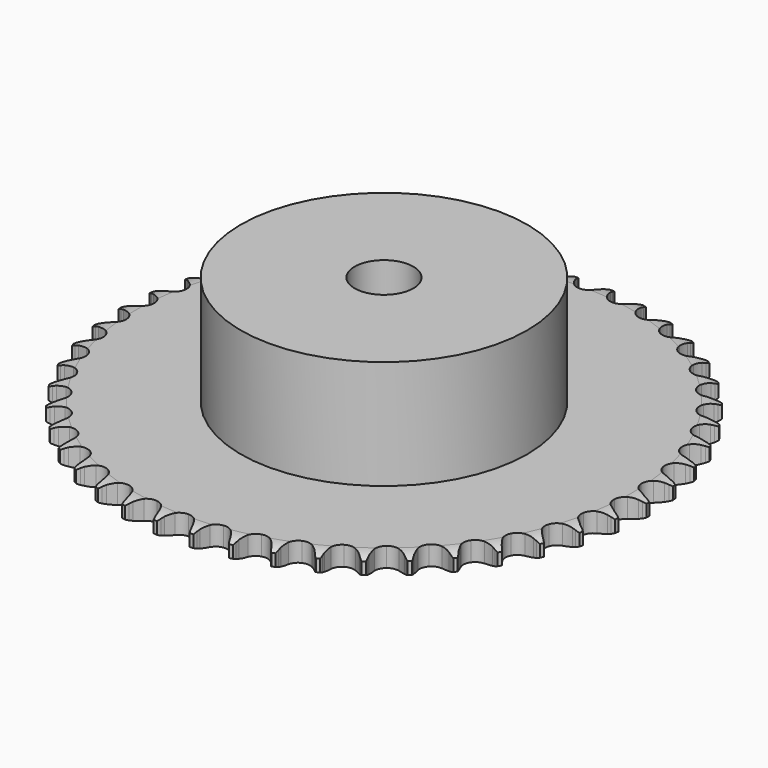
from build123d import *

# Parameters (mm, degrees)
PAD_DEPTH         = 5.3
SKETCH001_R       = 39
PAD001_DEPTH      = 35
SKETCH002_R       = 8
POCKET_DEPTH      = 0.001
POCKET_DEPTH_BACK = 35.001


with BuildPart() as part:
    # Sprocket → Pad (new body)
    with BuildSketch(Plane.XY):
        with BuildLine():
            ThreePointArc((-4.957772, 72.480067), (-4.430516, 71.726714), (-4.04661, 70.891157))
            Line((-4.04661, 70.891157), (-3.737444, 70.019151))
            ThreePointArc((-3.737444, 70.019151), (-3.248414, 68.906026), (-2.602177, 67.876184))
            ThreePointArc((-2.602177, 67.876184), (-1.458278, 66.907056), (0, 66.559002))
            ThreePointArc((0, 66.559002), (1.458278, 66.907056), (2.602177, 67.876184))
            ThreePointArc((2.602177, 67.876184), (3.248414, 68.906026), (3.737444, 70.019151))
            Line((3.737444, 70.019151), (4.04661, 70.891157))
            ThreePointArc((4.04661, 70.891157), (4.430516, 71.726714), (4.957772, 72.480067))
            ThreePointArc((4.957772, 72.480067), (5.377536, 71.661936), (5.644091, 70.781886))
            Line((5.644091, 70.781886), (5.83164, 69.875904))
            ThreePointArc((5.83164, 69.875904), (6.164545, 68.706557), (6.664532, 67.598311))
            ThreePointArc((6.664532, 67.598311), (7.665815, 66.482449), (9.063116, 65.939068))
            ThreePointArc((9.063116, 65.939068), (10.555205, 66.085312), (11.820413, 66.889652))
            Line((11.820413, 66.889652), (13.236907, 68.858073))
            ThreePointArc((13.236907, 68.858073), (13.437972, 69.274887), (13.661931, 69.67986))
            ThreePointArc((13.661931, 69.67986), (14.156037, 70.455359), (14.780963, 71.1299))
            ThreePointArc((14.780963, 71.1299), (15.085415, 70.262232), (15.229654, 69.354083))
            Line((15.229654, 69.354083), (15.292091, 68.431001))
            ThreePointArc((15.292091, 68.431001), (15.46267, 67.227215), (15.807094, 66.06121))
            ThreePointArc((15.807094, 66.06121), (16.647107, 64.8194), (17.957404, 64.090814))
            ThreePointArc((17.957404, 64.090814), (19.455508, 64.032523), (20.818457, 64.657092))
            Line((20.818457, 64.657092), (22.48979, 66.4143))
            ThreePointArc((22.48979, 66.4143), (22.745739, 66.799853), (23.022756, 67.170558))
            ThreePointArc((23.022756, 67.170558), (23.617857, 67.871554), (24.328813, 68.454718))
            ThreePointArc((24.328813, 68.454718), (24.512281, 67.553675), (24.531518, 66.634344))
            Line((24.531518, 66.634344), (24.46768, 65.711358))
            ThreePointArc((24.46768, 65.711358), (24.472754, 64.495558), (24.655199, 63.293513))
            ThreePointArc((24.655199, 63.293513), (25.318295, 61.948888), (26.517179, 61.048669))
            ThreePointArc((26.517179, 61.048669), (27.993393, 60.786929), (29.428692, 61.220093))
            Line((29.428692, 61.220093), (31.323732, 62.733354))
            ThreePointArc((31.323732, 62.733354), (31.629796, 63.080465), (31.954711, 63.409997))
            ThreePointArc((31.954711, 63.409997), (32.639721, 64.02343), (33.423462, 64.504354))
            ThreePointArc((33.423462, 64.504354), (33.48253, 63.586721), (33.376405, 62.673334))
            Line((33.376405, 62.673334), (33.187482, 61.767637))
            ThreePointArc((33.187482, 61.767637), (33.026958, 60.56247), (33.044025, 59.346778))
            ThreePointArc((33.044025, 59.346778), (33.517852, 57.924385), (34.582989, 56.869303))
            ThreePointArc((34.582989, 56.869303), (36.009813, 56.40899), (37.490727, 56.642679))
            Line((37.490727, 56.642679), (39.574172, 57.883805))
            ThreePointArc((39.574172, 57.883805), (39.92465, 58.186006), (40.29141, 58.468226))
            ThreePointArc((40.29141, 58.468226), (41.053569, 58.982671), (41.895496, 59.352396))
            ThreePointArc((41.895496, 59.352396), (41.829063, 58.435267), (41.599553, 57.544838))
            Line((41.599553, 57.544838), (41.289064, 56.673302))
            ThreePointArc((41.289064, 56.673302), (40.965931, 55.501217), (40.817303, 54.294525))
            ThreePointArc((40.817303, 54.294525), (41.093034, 52.82086), (42.004584, 51.63057))
            ThreePointArc((42.004584, 51.63057), (43.355439, 50.980258), (44.85438, 51.01012))
            Line((44.85438, 51.01012), (47.087419, 51.95599))
            ThreePointArc((47.087419, 51.95599), (47.475783, 52.207653), (47.877556, 52.437304))
            ThreePointArc((47.877556, 52.437304), (48.702666, 52.843176), (49.587096, 53.094816))
            ThreePointArc((49.587096, 53.094816), (49.396399, 52.195275), (49.047781, 51.34439))
            Line((49.047781, 51.34439), (48.621509, 50.52325))
            ThreePointArc((48.621509, 50.52325), (48.141787, 49.406082), (47.830232, 48.230868))
            ThreePointArc((47.830232, 48.230868), (47.902731, 46.733383), (48.643713, 45.430056))
            ThreePointArc((48.643713, 45.430056), (49.893435, 44.60186), (51.382481, 44.427338))
            Line((51.382481, 44.427338), (53.723518, 45.060333))
            ThreePointArc((53.723518, 45.060333), (54.142532, 45.25677), (54.571834, 45.429574))
            ThreePointArc((54.571834, 45.429574), (55.444525, 45.719313), (56.354983, 45.848179))
            ThreePointArc((56.354983, 45.848179), (56.043574, 44.982983), (55.582341, 44.187494))
            Line((55.582341, 44.187494), (55.048227, 43.432046))
            ThreePointArc((55.048227, 43.432046), (54.420853, 42.390606), (53.952175, 41.26876))
            ThreePointArc((53.952175, 41.26876), (53.820091, 39.775352), (54.376701, 38.383267))
            ThreePointArc((54.376701, 38.383267), (55.502011, 37.392614), (56.953423, 37.016959))
            Line((56.953423, 37.016959), (59.358848, 37.325287))
            ThreePointArc((59.358848, 37.325287), (59.800709, 37.462838), (60.249542, 37.575577))
            ThreePointArc((60.249542, 37.575577), (61.153557, 37.743786), (62.073082, 37.747477))
            ThreePointArc((62.073082, 37.747477), (61.646763, 36.932743), (61.081507, 36.207468))
            Line((61.081507, 36.207468), (60.449501, 35.531785))
            ThreePointArc((60.449501, 35.531785), (59.686161, 34.585472), (59.06909, 33.537894))
            ThreePointArc((59.06909, 33.537894), (58.734884, 32.076381), (59.096754, 30.62147))
            ThreePointArc((59.096754, 30.62147), (60.076689, 29.486814), (61.463431, 28.917025))
            Line((61.463431, 28.917025), (63.888436, 28.894942))
            ThreePointArc((63.888436, 28.894942), (64.344911, 28.971045), (64.804914, 29.021617))
            ThreePointArc((64.804914, 29.021617), (65.723415, 29.065163), (66.634878, 28.943612))
            ThreePointArc((66.634878, 28.943612), (66.10159, 28.194517), (65.44284, 27.552966))
            Line((65.44284, 27.552966), (64.724716, 26.969634))
            ThreePointArc((64.724716, 26.969634), (63.839628, 26.136077), (63.08566, 25.18228))
            ThreePointArc((63.08566, 25.18228), (62.555557, 23.779887), (62.715947, 22.289253))
            ThreePointArc((62.715947, 22.289253), (63.532252, 21.031731), (64.828492, 20.27842))
            Line((64.828492, 20.27842), (67.227903, 19.926338))
            ThreePointArc((67.227903, 19.926338), (67.690489, 19.939577), (68.153094, 19.92704))
            ThreePointArc((68.153094, 19.92704), (69.068969, 19.845112), (69.955391, 19.600581))
            ThreePointArc((69.955391, 19.600581), (69.325069, 18.931079), (68.585097, 18.385204))
            Line((68.585097, 18.385204), (67.794231, 17.905089))
            ThreePointArc((67.794231, 17.905089), (66.803885, 17.199816), (65.927063, 16.357568))
            ThreePointArc((65.927063, 16.357568), (65.210939, 15.040419), (65.16686, 13.541829))
            ThreePointArc((65.16686, 13.541829), (65.80433, 12.184867), (66.98592, 11.262068))
            Line((66.98592, 11.262068), (69.315042, 10.586545))
            ThreePointArc((69.315042, 10.586545), (69.775122, 10.536671), (70.231711, 10.46126))
            ThreePointArc((70.231711, 10.46126), (71.1279, 10.255383), (71.972769, 9.892429))
            ThreePointArc((71.972769, 9.892429), (71.257153, 9.314992), (70.449743, 8.87496))
            Line((70.449743, 8.87496), (69.600868, 8.507007))
            ThreePointArc((69.600868, 8.507007), (68.523711, 7.943155), (67.54037, 7.228146))
            ThreePointArc((67.54037, 7.228146), (66.651564, 6.020777), (66.403838, 4.542147))
            ThreePointArc((66.403838, 4.542147), (66.850597, 3.111021), (67.895528, 2.035924))
            Line((67.895528, 2.035924), (70.110972, 1.049544))
            ThreePointArc((70.110972, 1.049544), (70.559976, 0.937488), (71.002044, 0.800607))
            ThreePointArc((71.002044, 0.800607), (71.861852, 0.474616), (72.649429, 0))
            ThreePointArc((72.649429, 0), (71.861852, -0.474616), (71.002044, -0.800607))
            Line((71.002044, -0.800607), (70.110972, -1.049544))
            ThreePointArc((70.110972, -1.049544), (68.96707, -1.461473), (67.895528, -2.035924))
            ThreePointArc((67.895528, -2.035924), (66.850597, -3.111021), (66.403838, -4.542147))
            ThreePointArc((66.403838, -4.542147), (66.651564, -6.020777), (67.54037, -7.228146))
            Line((67.54037, -7.228146), (69.600868, -8.507007))
            ThreePointArc((69.600868, -8.507007), (70.030431, -8.67916), (70.449743, -8.87496))
            ThreePointArc((70.449743, -8.87496), (71.257153, -9.314992), (71.972769, -9.892429))
            ThreePointArc((71.972769, -9.892429), (71.1279, -10.255383), (70.231711, -10.46126))
            Line((70.231711, -10.46126), (69.315042, -10.586545))
            ThreePointArc((69.315042, -10.586545), (68.125703, -10.838875), (66.98592, -11.262068))
            ThreePointArc((66.98592, -11.262068), (65.80433, -12.184867), (65.16686, -13.541829))
            ThreePointArc((65.16686, -13.541829), (65.210939, -15.040419), (65.927063, -16.357568))
            Line((65.927063, -16.357568), (67.794231, -17.905089))
            ThreePointArc((67.794231, -17.905089), (68.196351, -18.13413), (68.585097, -18.385204))
            ThreePointArc((68.585097, -18.385204), (69.325069, -18.931079), (69.955391, -19.600581))
            ThreePointArc((69.955391, -19.600581), (69.068969, -19.845112), (68.153094, -19.92704))
            Line((68.153094, -19.92704), (67.227903, -19.926338))
            ThreePointArc((67.227903, -19.926338), (66.015283, -20.01437), (64.828492, -20.27842))
            ThreePointArc((64.828492, -20.27842), (63.532252, -21.031731), (62.715947, -22.289253))
            ThreePointArc((62.715947, -22.289253), (62.555557, -23.779887), (63.08566, -25.18228))
            Line((63.08566, -25.18228), (64.724716, -26.969634))
            ThreePointArc((64.724716, -26.969634), (65.091903, -27.251297), (65.44284, -27.552966))
            ThreePointArc((65.44284, -27.552966), (66.10159, -28.194517), (66.634878, -28.943612))
            ThreePointArc((66.634878, -28.943612), (65.723415, -29.065163), (64.804914, -29.021617))
            Line((64.804914, -29.021617), (63.888436, -28.894942))
            ThreePointArc((63.888436, -28.894942), (62.675124, -28.817035), (61.463431, -28.917025))
            ThreePointArc((61.463431, -28.917025), (60.076689, -29.486814), (59.096754, -30.62147))
            ThreePointArc((59.096754, -30.62147), (58.734884, -32.076381), (59.06909, -33.537894))
            Line((59.06909, -33.537894), (60.449501, -35.531785))
            ThreePointArc((60.449501, -35.531785), (60.774916, -35.860823), (61.081507, -36.207468))
            ThreePointArc((61.081507, -36.207468), (61.646763, -36.932743), (62.073082, -37.747477))
            ThreePointArc((62.073082, -37.747477), (61.153557, -37.743786), (60.249542, -37.575577))
            Line((60.249542, -37.575577), (59.358848, -37.325287))
            ThreePointArc((59.358848, -37.325287), (58.167445, -37.082893), (56.953423, -37.016959))
            ThreePointArc((56.953423, -37.016959), (55.502011, -37.392614), (54.376701, -38.383267))
            ThreePointArc((54.376701, -38.383267), (53.820091, -39.775352), (53.952175, -41.26876))
            Line((53.952175, -41.26876), (55.048227, -43.432046))
            ThreePointArc((55.048227, -43.432046), (55.325807, -43.80233), (55.582341, -44.187494))
            ThreePointArc((55.582341, -44.187494), (56.043574, -44.982983), (56.354983, -45.848179))
            ThreePointArc((56.354983, -45.848179), (55.444525, -45.719313), (54.571834, -45.429574))
            Line((54.571834, -45.429574), (53.723518, -45.060333))
            ThreePointArc((53.723518, -45.060333), (52.576217, -44.657967), (51.382481, -44.427338))
            ThreePointArc((51.382481, -44.427338), (49.893435, -44.60186), (48.643713, -45.430056))
            ThreePointArc((48.643713, -45.430056), (47.902731, -46.733383), (47.830232, -48.230868))
            Line((47.830232, -48.230868), (48.621509, -50.52325))
            ThreePointArc((48.621509, -50.52325), (48.846083, -50.927883), (49.047781, -51.34439))
            ThreePointArc((49.047781, -51.34439), (49.396399, -52.195275), (49.587096, -53.094816))
            ThreePointArc((49.587096, -53.094816), (48.702666, -52.843176), (47.877556, -52.437304))
            Line((47.877556, -52.437304), (47.087419, -51.95599))
            ThreePointArc((47.087419, -51.95599), (46.005594, -51.401148), (44.85438, -51.01012))
            ThreePointArc((44.85438, -51.01012), (43.355439, -50.980258), (42.004584, -51.63057))
            ThreePointArc((42.004584, -51.63057), (41.093034, -52.82086), (40.817303, -54.294525))
            Line((40.817303, -54.294525), (41.289064, -56.673302))
            ThreePointArc((41.289064, -56.673302), (41.456449, -57.104745), (41.599553, -57.544838))
            ThreePointArc((41.599553, -57.544838), (41.829063, -58.435267), (41.895496, -59.352396))
            ThreePointArc((41.895496, -59.352396), (41.053569, -58.982671), (40.29141, -58.468226))
            Line((40.29141, -58.468226), (39.574172, -57.883805))
            ThreePointArc((39.574172, -57.883805), (38.577973, -57.186822), (37.490727, -56.642679))
            ThreePointArc((37.490727, -56.642679), (36.009813, -56.40899), (34.582989, -56.869303))
            ThreePointArc((34.582989, -56.869303), (33.517852, -57.924385), (33.044025, -59.346778))
            Line((33.044025, -59.346778), (33.187482, -61.767637))
            ThreePointArc((33.187482, -61.767637), (33.294559, -62.217854), (33.376405, -62.673334))
            ThreePointArc((33.376405, -62.673334), (33.48253, -63.586721), (33.423462, -64.504354))
            ThreePointArc((33.423462, -64.504354), (32.639721, -64.02343), (31.954711, -63.409997))
            Line((31.954711, -63.409997), (31.323732, -62.733354))
            ThreePointArc((31.323732, -62.733354), (30.431718, -61.907214), (29.428692, -61.220093))
            ThreePointArc((29.428692, -61.220093), (27.993393, -60.786929), (26.517179, -61.048669))
            ThreePointArc((26.517179, -61.048669), (25.318295, -61.948888), (24.655199, -63.293513))
            Line((24.655199, -63.293513), (24.46768, -65.711358))
            ThreePointArc((24.46768, -65.711358), (24.512455, -66.171962), (24.531518, -66.634344))
            ThreePointArc((24.531518, -66.634344), (24.512281, -67.553675), (24.328813, -68.454718))
            ThreePointArc((24.328813, -68.454718), (23.617857, -67.871554), (23.022756, -67.170558))
            Line((23.022756, -67.170558), (22.48979, -66.4143))
            ThreePointArc((22.48979, -66.4143), (21.718577, -65.474392), (20.818457, -64.657092))
            ThreePointArc((20.818457, -64.657092), (19.455508, -64.032523), (17.957404, -64.090814))
            ThreePointArc((17.957404, -64.090814), (16.647107, -64.8194), (15.807094, -66.06121))
            Line((15.807094, -66.06121), (15.292091, -68.431001))
            ThreePointArc((15.292091, -68.431001), (15.273731, -68.893412), (15.229654, -69.354083))
            ThreePointArc((15.229654, -69.354083), (15.085415, -70.262232), (14.780963, -71.1299))
            ThreePointArc((14.780963, -71.1299), (14.156037, -70.455359), (13.661931, -69.67986))
            Line((13.661931, -69.67986), (13.236907, -68.858073))
            ThreePointArc((13.236907, -68.858073), (12.600861, -67.821906), (11.820413, -66.889652))
            ThreePointArc((11.820413, -66.889652), (10.555205, -66.085312), (9.063116, -65.939068))
            ThreePointArc((9.063116, -65.939068), (7.665815, -66.482449), (6.664532, -67.598311))
            Line((6.664532, -67.598311), (5.83164, -69.875904))
            ThreePointArc((5.83164, -69.875904), (5.750485, -70.331507), (5.644091, -70.781886))
            ThreePointArc((5.644091, -70.781886), (5.377536, -71.661936), (4.957772, -72.480067))
            ThreePointArc((4.957772, -72.480067), (4.430516, -71.726714), (4.04661, -70.891157))
            Line((4.04661, -70.891157), (3.737444, -70.019151))
            ThreePointArc((3.737444, -70.019151), (3.248414, -68.906026), (2.602177, -67.876184))
            ThreePointArc((2.602177, -67.876184), (1.458278, -66.907056), (0, -66.559002))
            ThreePointArc((0, -66.559002), (-1.458278, -66.907056), (-2.602177, -67.876184))
            Line((-2.602177, -67.876184), (-3.737444, -70.019151))
            ThreePointArc((-3.737444, -70.019151), (-3.879881, -70.45946), (-4.04661, -70.891157))
            ThreePointArc((-4.04661, -70.891157), (-4.430516, -71.726714), (-4.957772, -72.480067))
            ThreePointArc((-4.957772, -72.480067), (-5.377536, -71.661936), (-5.644091, -70.781886))
            Line((-5.644091, -70.781886), (-5.83164, -69.875904))
            ThreePointArc((-5.83164, -69.875904), (-6.164545, -68.706557), (-6.664532, -67.598311))
            ThreePointArc((-6.664532, -67.598311), (-7.665815, -66.482449), (-9.063116, -65.939068))
            ThreePointArc((-9.063116, -65.939068), (-10.555205, -66.085312), (-11.820413, -66.889652))
            Line((-11.820413, -66.889652), (-13.236907, -68.858073))
            ThreePointArc((-13.236907, -68.858073), (-13.437972, -69.274887), (-13.661931, -69.67986))
            ThreePointArc((-13.661931, -69.67986), (-14.156037, -70.455359), (-14.780963, -71.1299))
            ThreePointArc((-14.780963, -71.1299), (-15.085415, -70.262232), (-15.229654, -69.354083))
            Line((-15.229654, -69.354083), (-15.292091, -68.431001))
            ThreePointArc((-15.292091, -68.431001), (-15.46267, -67.227215), (-15.807094, -66.06121))
            ThreePointArc((-15.807094, -66.06121), (-16.647107, -64.8194), (-17.957404, -64.090814))
            ThreePointArc((-17.957404, -64.090814), (-19.455508, -64.032523), (-20.818457, -64.657092))
            Line((-20.818457, -64.657092), (-22.48979, -66.4143))
            ThreePointArc((-22.48979, -66.4143), (-22.745739, -66.799853), (-23.022756, -67.170558))
            ThreePointArc((-23.022756, -67.170558), (-23.617857, -67.871554), (-24.328813, -68.454718))
            ThreePointArc((-24.328813, -68.454718), (-24.512281, -67.553675), (-24.531518, -66.634344))
            Line((-24.531518, -66.634344), (-24.46768, -65.711358))
            ThreePointArc((-24.46768, -65.711358), (-24.472754, -64.495558), (-24.655199, -63.293513))
            ThreePointArc((-24.655199, -63.293513), (-25.318295, -61.948888), (-26.517179, -61.048669))
            ThreePointArc((-26.517179, -61.048669), (-27.993393, -60.786929), (-29.428692, -61.220093))
            Line((-29.428692, -61.220093), (-31.323732, -62.733354))
            ThreePointArc((-31.323732, -62.733354), (-31.629796, -63.080465), (-31.954711, -63.409997))
            ThreePointArc((-31.954711, -63.409997), (-32.639721, -64.02343), (-33.423462, -64.504354))
            ThreePointArc((-33.423462, -64.504354), (-33.48253, -63.586721), (-33.376405, -62.673334))
            Line((-33.376405, -62.673334), (-33.187482, -61.767637))
            ThreePointArc((-33.187482, -61.767637), (-33.026958, -60.56247), (-33.044025, -59.346778))
            ThreePointArc((-33.044025, -59.346778), (-33.517852, -57.924385), (-34.582989, -56.869303))
            ThreePointArc((-34.582989, -56.869303), (-36.009813, -56.40899), (-37.490727, -56.642679))
            Line((-37.490727, -56.642679), (-39.574172, -57.883805))
            ThreePointArc((-39.574172, -57.883805), (-39.92465, -58.186006), (-40.29141, -58.468226))
            ThreePointArc((-40.29141, -58.468226), (-41.053569, -58.982671), (-41.895496, -59.352396))
            ThreePointArc((-41.895496, -59.352396), (-41.829063, -58.435267), (-41.599553, -57.544838))
            Line((-41.599553, -57.544838), (-41.289064, -56.673302))
            ThreePointArc((-41.289064, -56.673302), (-40.965931, -55.501217), (-40.817303, -54.294525))
            ThreePointArc((-40.817303, -54.294525), (-41.093034, -52.82086), (-42.004584, -51.63057))
            ThreePointArc((-42.004584, -51.63057), (-43.355439, -50.980258), (-44.85438, -51.01012))
            Line((-44.85438, -51.01012), (-47.087419, -51.95599))
            ThreePointArc((-47.087419, -51.95599), (-47.475783, -52.207653), (-47.877556, -52.437304))
            ThreePointArc((-47.877556, -52.437304), (-48.702666, -52.843176), (-49.587096, -53.094816))
            ThreePointArc((-49.587096, -53.094816), (-49.396399, -52.195275), (-49.047781, -51.34439))
            Line((-49.047781, -51.34439), (-48.621509, -50.52325))
            ThreePointArc((-48.621509, -50.52325), (-48.141787, -49.406082), (-47.830232, -48.230868))
            ThreePointArc((-47.830232, -48.230868), (-47.902731, -46.733383), (-48.643713, -45.430056))
            ThreePointArc((-48.643713, -45.430056), (-49.893435, -44.60186), (-51.382481, -44.427338))
            Line((-51.382481, -44.427338), (-53.723518, -45.060333))
            ThreePointArc((-53.723518, -45.060333), (-54.142532, -45.25677), (-54.571834, -45.429574))
            ThreePointArc((-54.571834, -45.429574), (-55.444525, -45.719313), (-56.354983, -45.848179))
            ThreePointArc((-56.354983, -45.848179), (-56.043574, -44.982983), (-55.582341, -44.187494))
            Line((-55.582341, -44.187494), (-55.048227, -43.432046))
            ThreePointArc((-55.048227, -43.432046), (-54.420853, -42.390606), (-53.952175, -41.26876))
            ThreePointArc((-53.952175, -41.26876), (-53.820091, -39.775352), (-54.376701, -38.383267))
            ThreePointArc((-54.376701, -38.383267), (-55.502011, -37.392614), (-56.953423, -37.016959))
            Line((-56.953423, -37.016959), (-59.358848, -37.325287))
            ThreePointArc((-59.358848, -37.325287), (-59.800709, -37.462838), (-60.249542, -37.575577))
            ThreePointArc((-60.249542, -37.575577), (-61.153557, -37.743786), (-62.073082, -37.747477))
            ThreePointArc((-62.073082, -37.747477), (-61.646763, -36.932743), (-61.081507, -36.207468))
            Line((-61.081507, -36.207468), (-60.449501, -35.531785))
            ThreePointArc((-60.449501, -35.531785), (-59.686161, -34.585472), (-59.06909, -33.537894))
            ThreePointArc((-59.06909, -33.537894), (-58.734884, -32.076381), (-59.096754, -30.62147))
            ThreePointArc((-59.096754, -30.62147), (-60.076689, -29.486814), (-61.463431, -28.917025))
            Line((-61.463431, -28.917025), (-63.888436, -28.894942))
            ThreePointArc((-63.888436, -28.894942), (-64.344911, -28.971045), (-64.804914, -29.021617))
            ThreePointArc((-64.804914, -29.021617), (-65.723415, -29.065163), (-66.634878, -28.943612))
            ThreePointArc((-66.634878, -28.943612), (-66.10159, -28.194517), (-65.44284, -27.552966))
            Line((-65.44284, -27.552966), (-64.724716, -26.969634))
            ThreePointArc((-64.724716, -26.969634), (-63.839628, -26.136077), (-63.08566, -25.18228))
            ThreePointArc((-63.08566, -25.18228), (-62.555557, -23.779887), (-62.715947, -22.289253))
            ThreePointArc((-62.715947, -22.289253), (-63.532252, -21.031731), (-64.828492, -20.27842))
            Line((-64.828492, -20.27842), (-67.227903, -19.926338))
            ThreePointArc((-67.227903, -19.926338), (-67.690489, -19.939577), (-68.153094, -19.92704))
            ThreePointArc((-68.153094, -19.92704), (-69.068969, -19.845112), (-69.955391, -19.600581))
            ThreePointArc((-69.955391, -19.600581), (-69.325069, -18.931079), (-68.585097, -18.385204))
            Line((-68.585097, -18.385204), (-67.794231, -17.905089))
            ThreePointArc((-67.794231, -17.905089), (-66.803885, -17.199816), (-65.927063, -16.357568))
            ThreePointArc((-65.927063, -16.357568), (-65.210939, -15.040419), (-65.16686, -13.541829))
            ThreePointArc((-65.16686, -13.541829), (-65.80433, -12.184867), (-66.98592, -11.262068))
            Line((-66.98592, -11.262068), (-69.315042, -10.586545))
            ThreePointArc((-69.315042, -10.586545), (-69.775122, -10.536671), (-70.231711, -10.46126))
            ThreePointArc((-70.231711, -10.46126), (-71.1279, -10.255383), (-71.972769, -9.892429))
            ThreePointArc((-71.972769, -9.892429), (-71.257153, -9.314992), (-70.449743, -8.87496))
            Line((-70.449743, -8.87496), (-69.600868, -8.507007))
            ThreePointArc((-69.600868, -8.507007), (-68.523711, -7.943155), (-67.54037, -7.228146))
            ThreePointArc((-67.54037, -7.228146), (-66.651564, -6.020777), (-66.403838, -4.542147))
            ThreePointArc((-66.403838, -4.542147), (-66.850597, -3.111021), (-67.895528, -2.035924))
            Line((-67.895528, -2.035924), (-70.110972, -1.049544))
            ThreePointArc((-70.110972, -1.049544), (-70.559976, -0.937488), (-71.002044, -0.800607))
            ThreePointArc((-71.002044, -0.800607), (-71.861852, -0.474616), (-72.649429, 0))
            ThreePointArc((-72.649429, 0), (-71.861852, 0.474616), (-71.002044, 0.800607))
            Line((-71.002044, 0.800607), (-70.110972, 1.049544))
            ThreePointArc((-70.110972, 1.049544), (-68.96707, 1.461473), (-67.895528, 2.035924))
            ThreePointArc((-67.895528, 2.035924), (-66.850597, 3.111021), (-66.403838, 4.542147))
            ThreePointArc((-66.403838, 4.542147), (-66.651564, 6.020777), (-67.54037, 7.228146))
            Line((-67.54037, 7.228146), (-69.600868, 8.507007))
            ThreePointArc((-69.600868, 8.507007), (-70.030431, 8.67916), (-70.449743, 8.87496))
            ThreePointArc((-70.449743, 8.87496), (-71.257153, 9.314992), (-71.972769, 9.892429))
            ThreePointArc((-71.972769, 9.892429), (-71.1279, 10.255383), (-70.231711, 10.46126))
            Line((-70.231711, 10.46126), (-69.315042, 10.586545))
            ThreePointArc((-69.315042, 10.586545), (-68.125703, 10.838875), (-66.98592, 11.262068))
            ThreePointArc((-66.98592, 11.262068), (-65.80433, 12.184867), (-65.16686, 13.541829))
            ThreePointArc((-65.16686, 13.541829), (-65.210939, 15.040419), (-65.927063, 16.357568))
            Line((-65.927063, 16.357568), (-67.794231, 17.905089))
            ThreePointArc((-67.794231, 17.905089), (-68.196351, 18.13413), (-68.585097, 18.385204))
            ThreePointArc((-68.585097, 18.385204), (-69.325069, 18.931079), (-69.955391, 19.600581))
            ThreePointArc((-69.955391, 19.600581), (-69.068969, 19.845112), (-68.153094, 19.92704))
            Line((-68.153094, 19.92704), (-67.227903, 19.926338))
            ThreePointArc((-67.227903, 19.926338), (-66.015283, 20.01437), (-64.828492, 20.27842))
            ThreePointArc((-64.828492, 20.27842), (-63.532252, 21.031731), (-62.715947, 22.289253))
            ThreePointArc((-62.715947, 22.289253), (-62.555557, 23.779887), (-63.08566, 25.18228))
            Line((-63.08566, 25.18228), (-64.724716, 26.969634))
            ThreePointArc((-64.724716, 26.969634), (-65.091903, 27.251297), (-65.44284, 27.552966))
            ThreePointArc((-65.44284, 27.552966), (-66.10159, 28.194517), (-66.634878, 28.943612))
            ThreePointArc((-66.634878, 28.943612), (-65.723415, 29.065163), (-64.804914, 29.021617))
            Line((-64.804914, 29.021617), (-63.888436, 28.894942))
            ThreePointArc((-63.888436, 28.894942), (-62.675124, 28.817035), (-61.463431, 28.917025))
            ThreePointArc((-61.463431, 28.917025), (-60.076689, 29.486814), (-59.096754, 30.62147))
            ThreePointArc((-59.096754, 30.62147), (-58.734884, 32.076381), (-59.06909, 33.537894))
            Line((-59.06909, 33.537894), (-60.449501, 35.531785))
            ThreePointArc((-60.449501, 35.531785), (-60.774916, 35.860823), (-61.081507, 36.207468))
            ThreePointArc((-61.081507, 36.207468), (-61.646763, 36.932743), (-62.073082, 37.747477))
            ThreePointArc((-62.073082, 37.747477), (-61.153557, 37.743786), (-60.249542, 37.575577))
            Line((-60.249542, 37.575577), (-59.358848, 37.325287))
            ThreePointArc((-59.358848, 37.325287), (-58.167445, 37.082893), (-56.953423, 37.016959))
            ThreePointArc((-56.953423, 37.016959), (-55.502011, 37.392614), (-54.376701, 38.383267))
            ThreePointArc((-54.376701, 38.383267), (-53.820091, 39.775352), (-53.952175, 41.26876))
            Line((-53.952175, 41.26876), (-55.048227, 43.432046))
            ThreePointArc((-55.048227, 43.432046), (-55.325807, 43.80233), (-55.582341, 44.187494))
            ThreePointArc((-55.582341, 44.187494), (-56.043574, 44.982983), (-56.354983, 45.848179))
            ThreePointArc((-56.354983, 45.848179), (-55.444525, 45.719313), (-54.571834, 45.429574))
            Line((-54.571834, 45.429574), (-53.723518, 45.060333))
            ThreePointArc((-53.723518, 45.060333), (-52.576217, 44.657967), (-51.382481, 44.427338))
            ThreePointArc((-51.382481, 44.427338), (-49.893435, 44.60186), (-48.643713, 45.430056))
            ThreePointArc((-48.643713, 45.430056), (-47.902731, 46.733383), (-47.830232, 48.230868))
            Line((-47.830232, 48.230868), (-48.621509, 50.52325))
            ThreePointArc((-48.621509, 50.52325), (-48.846083, 50.927883), (-49.047781, 51.34439))
            ThreePointArc((-49.047781, 51.34439), (-49.396399, 52.195275), (-49.587096, 53.094816))
            ThreePointArc((-49.587096, 53.094816), (-48.702666, 52.843176), (-47.877556, 52.437304))
            Line((-47.877556, 52.437304), (-47.087419, 51.95599))
            ThreePointArc((-47.087419, 51.95599), (-46.005594, 51.401148), (-44.85438, 51.01012))
            ThreePointArc((-44.85438, 51.01012), (-43.355439, 50.980258), (-42.004584, 51.63057))
            ThreePointArc((-42.004584, 51.63057), (-41.093034, 52.82086), (-40.817303, 54.294525))
            Line((-40.817303, 54.294525), (-41.289064, 56.673302))
            ThreePointArc((-41.289064, 56.673302), (-41.456449, 57.104745), (-41.599553, 57.544838))
            ThreePointArc((-41.599553, 57.544838), (-41.829063, 58.435267), (-41.895496, 59.352396))
            ThreePointArc((-41.895496, 59.352396), (-41.053569, 58.982671), (-40.29141, 58.468226))
            Line((-40.29141, 58.468226), (-39.574172, 57.883805))
            ThreePointArc((-39.574172, 57.883805), (-38.577973, 57.186822), (-37.490727, 56.642679))
            ThreePointArc((-37.490727, 56.642679), (-36.009813, 56.40899), (-34.582989, 56.869303))
            ThreePointArc((-34.582989, 56.869303), (-33.517852, 57.924385), (-33.044025, 59.346778))
            Line((-33.044025, 59.346778), (-33.187482, 61.767637))
            ThreePointArc((-33.187482, 61.767637), (-33.294559, 62.217854), (-33.376405, 62.673334))
            ThreePointArc((-33.376405, 62.673334), (-33.48253, 63.586721), (-33.423462, 64.504354))
            ThreePointArc((-33.423462, 64.504354), (-32.639721, 64.02343), (-31.954711, 63.409997))
            Line((-31.954711, 63.409997), (-31.323732, 62.733354))
            ThreePointArc((-31.323732, 62.733354), (-30.431718, 61.907214), (-29.428692, 61.220093))
            ThreePointArc((-29.428692, 61.220093), (-27.993393, 60.786929), (-26.517179, 61.048669))
            ThreePointArc((-26.517179, 61.048669), (-25.318295, 61.948888), (-24.655199, 63.293513))
            Line((-24.655199, 63.293513), (-24.46768, 65.711358))
            ThreePointArc((-24.46768, 65.711358), (-24.512455, 66.171962), (-24.531518, 66.634344))
            ThreePointArc((-24.531518, 66.634344), (-24.512281, 67.553675), (-24.328813, 68.454718))
            ThreePointArc((-24.328813, 68.454718), (-23.617857, 67.871554), (-23.022756, 67.170558))
            Line((-23.022756, 67.170558), (-22.48979, 66.4143))
            ThreePointArc((-22.48979, 66.4143), (-21.718577, 65.474392), (-20.818457, 64.657092))
            ThreePointArc((-20.818457, 64.657092), (-19.455508, 64.032523), (-17.957404, 64.090814))
            ThreePointArc((-17.957404, 64.090814), (-16.647107, 64.8194), (-15.807094, 66.06121))
            Line((-15.807094, 66.06121), (-15.292091, 68.431001))
            ThreePointArc((-15.292091, 68.431001), (-15.273731, 68.893412), (-15.229654, 69.354083))
            ThreePointArc((-15.229654, 69.354083), (-15.085415, 70.262232), (-14.780963, 71.1299))
            ThreePointArc((-14.780963, 71.1299), (-14.156037, 70.455359), (-13.661931, 69.67986))
            Line((-13.661931, 69.67986), (-13.236907, 68.858073))
            ThreePointArc((-13.236907, 68.858073), (-12.600861, 67.821906), (-11.820413, 66.889652))
            ThreePointArc((-11.820413, 66.889652), (-10.555205, 66.085312), (-9.063116, 65.939068))
            ThreePointArc((-9.063116, 65.939068), (-7.665815, 66.482449), (-6.664532, 67.598311))
            Line((-6.664532, 67.598311), (-5.83164, 69.875904))
            ThreePointArc((-5.83164, 69.875904), (-5.750485, 70.331507), (-5.644091, 70.781886))
            ThreePointArc((-5.644091, 70.781886), (-5.377536, 71.661936), (-4.957772, 72.480067))
        make_face()
    extrude(amount=PAD_DEPTH)

    # Sketch → Groove (revolve, cut)
    with BuildSketch(Plane.XZ):
        with BuildLine():
            Line((67.491101, 0), (71.85, 0))
            Line((76.208899, 0), (71.85, 0))
            Line((76.208899, 5.3), (76.208899, 0))
            Line((71.85, 5.3), (76.208899, 5.3))
            Line((67.491101, 5.3), (71.85, 5.3))
            ThreePointArc((71.85, 4.3), (69.727169, 5.046794), (67.491101, 5.3))
            Line((71.85, 1), (71.85, 4.3))
            ThreePointArc((67.491101, 0), (69.727169, 0.253206), (71.85, 1))
        make_face()
    revolve(axis=Axis((0, 0, 0), (0, 0, 1)), mode=Mode.SUBTRACT)

    # Sketch001 → Pad001 (join)
    with BuildSketch(Plane.XY):
        Circle(SKETCH001_R)
    extrude(amount=PAD001_DEPTH)

    # Sketch002 → Pocket (cut, two sides)
    with BuildSketch(Plane.XY) as pocket_sk:
        Circle(SKETCH002_R)
    extrude(amount=-POCKET_DEPTH, mode=Mode.SUBTRACT)
    extrude(pocket_sk.sketch, amount=POCKET_DEPTH_BACK, mode=Mode.SUBTRACT)


solid = part.part
